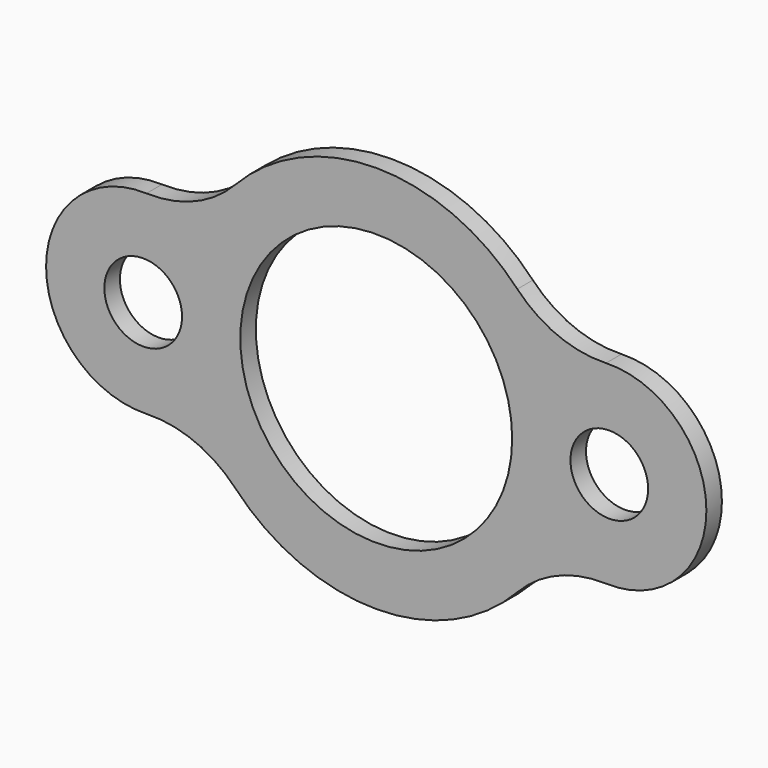
from build123d import *

# Parameters (mm, degrees)
F0_R     = 12.7
F0_R_2   = 44.45
F1_DEPTH = 6.35


with BuildPart() as f1:
    # F0 (on Front) → F1 (new body)
    with BuildSketch(Plane.XZ):
        with BuildLine():
            ThreePointArc((55.275964, -33.877561), (68.486769, -24.811319), (84.256859, -21.978232))
            ThreePointArc((84.256859, -21.978232), (117.089245, 9.753313), (84.256859, 41.484858))
            ThreePointArc((84.256859, 41.484858), (68.486769, 44.317945), (55.275964, 53.384187))
            ThreePointArc((55.275964, 53.384187), (9.139245, 73.253313), (-36.997474, 53.384187))
            ThreePointArc((-36.997474, 53.384187), (-50.208279, 44.317945), (-65.978369, 41.484858))
            ThreePointArc((-65.978369, 41.484858), (-98.810755, 9.753313), (-65.978369, -21.978232))
            ThreePointArc((-65.978369, -21.978232), (-50.208279, -24.811319), (-36.997474, -33.877561))
            ThreePointArc((-36.997474, -33.877561), (9.139245, -53.746687), (55.275964, -33.877561))
        make_face()
        with Locations((-67.060755, 9.753313)):
            Circle(F0_R, mode=Mode.SUBTRACT)
        with Locations((9.139245, 9.753313)):
            Circle(F0_R_2, mode=Mode.SUBTRACT)
        with Locations((85.339245, 9.753313)):
            Circle(F0_R, mode=Mode.SUBTRACT)
    extrude(amount=F1_DEPTH)


solid = f1.part
